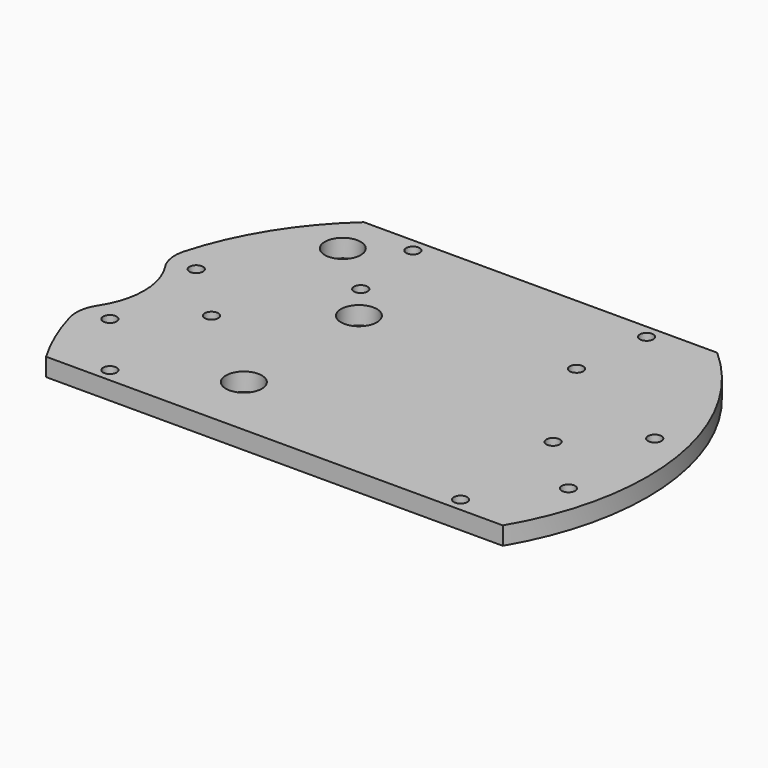
from build123d import *

# Parameters (mm, degrees)
CYLINDER1746_R     = 17
CYLINDER1746_DEPTH = 160
CYLINDER1742_R     = 1.5
CYLINDER1742_DEPTH = 100
CYLINDER1741_R     = 1.5
CYLINDER1741_DEPTH = 100
CYLINDER1740_R     = 1.5
CYLINDER1740_DEPTH = 32
CYLINDER1739_R     = 1.5
CYLINDER1739_DEPTH = 32
BOX544_W           = 200
BOX544_H           = 100
BOX544_DEPTH       = 100
BOX543_W           = 200
BOX543_H           = 100
BOX543_DEPTH       = 100
CYLINDER1732_R     = 4
CYLINDER1732_DEPTH = 100
CYLINDER1733_R     = 4
CYLINDER1733_DEPTH = 100
CYLINDER1734_R     = 4
CYLINDER1734_DEPTH = 100
CYLINDER1735_R     = 4
CYLINDER1735_DEPTH = 100
CYLINDER1736_R     = 4
CYLINDER1736_DEPTH = 100
CYLINDER1737_R     = 4
CYLINDER1737_DEPTH = 100
CYLINDER1738_R     = 4
CYLINDER1738_DEPTH = 100
CYLINDER1731_R     = 4
CYLINDER1731_DEPTH = 100
CYLINDER1724_R     = 1.5
CYLINDER1724_DEPTH = 100
CYLINDER1725_R     = 1.5
CYLINDER1725_DEPTH = 100
CYLINDER1726_R     = 1.5
CYLINDER1726_DEPTH = 100
CYLINDER1727_R     = 1.5
CYLINDER1727_DEPTH = 100
CYLINDER1728_R     = 1.5
CYLINDER1728_DEPTH = 100
CYLINDER1729_R     = 1.5
CYLINDER1729_DEPTH = 100
CYLINDER1730_R     = 1.5
CYLINDER1730_DEPTH = 100
CYLINDER1723_R     = 1.5
CYLINDER1723_DEPTH = 100
CYLINDER1722_R     = 59
CYLINDER1722_DEPTH = 4
FILLET001_R        = 8
FILLET002_R        = 8


with BuildPart() as obj1:
    # Cylinder1746 → Cylinder1746 (new body)
    with BuildSketch(Plane(origin=(-18, 0, -60), x_dir=(1, 0, 0), z_dir=(0, 0, 1))):
        Circle(CYLINDER1746_R)
    extrude(amount=CYLINDER1746_DEPTH)


with BuildPart() as obj2:
    # Cylinder1742 → Cylinder1742 (new body)
    with BuildSketch(Plane(origin=(14, 0, -60), x_dir=(1, 0, 0), z_dir=(0, 0, 1))):
        Circle(CYLINDER1742_R)
    extrude(amount=CYLINDER1742_DEPTH)


with BuildPart() as obj3:
    # Cylinder1741 → Cylinder1741 (new body)
    with BuildSketch(Plane(origin=(90, 0, -60), x_dir=(1, 0, 0), z_dir=(0, 0, 1))):
        Circle(CYLINDER1741_R)
    extrude(amount=CYLINDER1741_DEPTH)

    # Compound945: union obj2
    add(obj2.part)


with BuildPart() as obj4:
    # Cylinder1740 → Cylinder1740 (new body)
    with BuildSketch(Plane(origin=(78, 41, -42), x_dir=(1, 0, 0), z_dir=(0, 0, 1))):
        Circle(CYLINDER1740_R)
    extrude(amount=CYLINDER1740_DEPTH)


with BuildPart() as compound944:
    # Cylinder1739 → Cylinder1739 (new body)
    with BuildSketch(Plane(origin=(26, 41, -42), x_dir=(1, 0, 0), z_dir=(0, 0, 1))):
        Circle(CYLINDER1739_R)
    extrude(amount=CYLINDER1739_DEPTH)

    # Compound944: union obj4
    add(obj4.part)


with BuildPart() as krychle544:
    # Box544 → Box544 (new body)
    with BuildSketch(Plane(origin=(-60, 44, -90), x_dir=(1, 0, 0), z_dir=(0, 0, 1))):
        with Locations((100, 50)):
            Rectangle(BOX544_W, BOX544_H)
    extrude(amount=BOX544_DEPTH)


with BuildPart() as krychle543:
    # Box543 → Box543 (new body)
    with BuildSketch(Plane(origin=(-60, -130, -90), x_dir=(1, 0, 0), z_dir=(0, 0, 1))):
        with Locations((100, 50)):
            Rectangle(BOX543_W, BOX543_H)
    extrude(amount=BOX543_DEPTH)


with BuildPart() as obj5:
    # Cylinder1732 → Cylinder1732 (new body)
    with BuildSketch(Plane(origin=(-16, 34, -90), x_dir=(1, 0, 0), z_dir=(0, 0, 1))):
        Circle(CYLINDER1732_R)
    extrude(amount=CYLINDER1732_DEPTH)


with BuildPart() as obj6:
    # Cylinder1733 → Cylinder1733 (new body)
    with BuildSketch(Plane(origin=(-16, -34, -90), x_dir=(1, 0, 0), z_dir=(0, 0, 1))):
        Circle(CYLINDER1733_R)
    extrude(amount=CYLINDER1733_DEPTH)


with BuildPart() as obj7:
    # Cylinder1734 → Cylinder1734 (new body)
    with BuildSketch(Plane(origin=(34, -16, -90), x_dir=(1, 0, 0), z_dir=(0, 0, 1))):
        Circle(CYLINDER1734_R)
    extrude(amount=CYLINDER1734_DEPTH)


with BuildPart() as obj8:
    # Cylinder1735 → Cylinder1735 (new body)
    with BuildSketch(Plane(origin=(16, 34, -90), x_dir=(1, 0, 0), z_dir=(0, 0, 1))):
        Circle(CYLINDER1735_R)
    extrude(amount=CYLINDER1735_DEPTH)


with BuildPart() as obj9:
    # Cylinder1736 → Cylinder1736 (new body)
    with BuildSketch(Plane(origin=(16, -34, -90), x_dir=(1, 0, 0), z_dir=(0, 0, 1))):
        Circle(CYLINDER1736_R)
    extrude(amount=CYLINDER1736_DEPTH)


with BuildPart() as obj10:
    # Cylinder1737 → Cylinder1737 (new body)
    with BuildSketch(Plane(origin=(-34, 16, -90), x_dir=(1, 0, 0), z_dir=(0, 0, 1))):
        Circle(CYLINDER1737_R)
    extrude(amount=CYLINDER1737_DEPTH)


with BuildPart() as obj11:
    # Cylinder1738 → Cylinder1738 (new body)
    with BuildSketch(Plane(origin=(34, 16, -90), x_dir=(1, 0, 0), z_dir=(0, 0, 1))):
        Circle(CYLINDER1738_R)
    extrude(amount=CYLINDER1738_DEPTH)


with BuildPart() as obj12:
    # Cylinder1731 → Cylinder1731 (new body)
    with BuildSketch(Plane(origin=(-34, -16, -90), x_dir=(1, 0, 0), z_dir=(0, 0, 1))):
        Circle(CYLINDER1731_R)
    extrude(amount=CYLINDER1731_DEPTH)

    # Compound943: union obj5, obj6, obj7, obj8, obj9, obj10, obj11
    add(obj5.part)
    add(obj6.part)
    add(obj7.part)
    add(obj8.part)
    add(obj9.part)
    add(obj10.part)
    add(obj11.part)


with BuildPart() as obj13:
    # Cylinder1724 → Cylinder1724 (new body)
    with BuildSketch(Plane(origin=(103, 12, -60), x_dir=(1, 0, 0), z_dir=(0, 0, 1))):
        Circle(CYLINDER1724_R)
    extrude(amount=CYLINDER1724_DEPTH)


with BuildPart() as obj14:
    # Cylinder1725 → Cylinder1725 (new body)
    with BuildSketch(Plane(origin=(76, 24, -60), x_dir=(1, 0, 0), z_dir=(0, 0, 1))):
        Circle(CYLINDER1725_R)
    extrude(amount=CYLINDER1725_DEPTH)


with BuildPart() as obj15:
    # Cylinder1726 → Cylinder1726 (new body)
    with BuildSketch(Plane(origin=(91, -27, -60), x_dir=(1, 0, 0), z_dir=(0, 0, 1))):
        Circle(CYLINDER1726_R)
    extrude(amount=CYLINDER1726_DEPTH)


with BuildPart() as obj16:
    # Cylinder1727 → Cylinder1727 (new body)
    with BuildSketch(Plane(origin=(13, -27, -60), x_dir=(1, 0, 0), z_dir=(0, 0, 1))):
        Circle(CYLINDER1727_R)
    extrude(amount=CYLINDER1727_DEPTH)


with BuildPart() as obj17:
    # Cylinder1728 → Cylinder1728 (new body)
    with BuildSketch(Plane(origin=(28, 24, -60), x_dir=(1, 0, 0), z_dir=(0, 0, 1))):
        Circle(CYLINDER1728_R)
    extrude(amount=CYLINDER1728_DEPTH)


with BuildPart() as obj18:
    # Cylinder1729 → Cylinder1729 (new body)
    with BuildSketch(Plane(origin=(1, -12, -60), x_dir=(1, 0, 0), z_dir=(0, 0, 1))):
        Circle(CYLINDER1729_R)
    extrude(amount=CYLINDER1729_DEPTH)


with BuildPart() as obj19:
    # Cylinder1730 → Cylinder1730 (new body)
    with BuildSketch(Plane(origin=(1, 12, -60), x_dir=(1, 0, 0), z_dir=(0, 0, 1))):
        Circle(CYLINDER1730_R)
    extrude(amount=CYLINDER1730_DEPTH)


with BuildPart() as obj20:
    # Cylinder1723 → Cylinder1723 (new body)
    with BuildSketch(Plane(origin=(103, -12, -60), x_dir=(1, 0, 0), z_dir=(0, 0, 1))):
        Circle(CYLINDER1723_R)
    extrude(amount=CYLINDER1723_DEPTH)

    # Compound942: union obj13, obj14, obj15, obj16, obj17, obj18, obj19
    add(obj13.part)
    add(obj14.part)
    add(obj15.part)
    add(obj16.part)
    add(obj17.part)
    add(obj18.part)
    add(obj19.part)


with BuildPart() as fillet002:
    # Cylinder1722 → Cylinder1722 (new body)
    with BuildSketch(Plane(origin=(52, 0, -26), x_dir=(1, 0, 0), z_dir=(0, 0, 1))):
        Circle(CYLINDER1722_R)
    extrude(amount=CYLINDER1722_DEPTH)

    # Cut597: cut obj20
    add(obj20.part, mode=Mode.SUBTRACT)

    # Cut598: cut obj12
    add(obj12.part, mode=Mode.SUBTRACT)

    # Cut599: cut Krychle543
    add(krychle543.part, mode=Mode.SUBTRACT)

    # Cut600: cut Krychle544
    add(krychle544.part, mode=Mode.SUBTRACT)

    # Cut601: cut Compound944
    add(compound944.part, mode=Mode.SUBTRACT)

    # Cut602: cut obj3
    add(obj3.part, mode=Mode.SUBTRACT)

    # Cut586: cut obj1
    add(obj1.part, mode=Mode.SUBTRACT)

    # Fillet001
    fillet001_edges = [fillet002.edges().sort_by_distance(p)[0] for p in [
        (-5.8, -11.838919, -24),
    ]]
    fillet(fillet001_edges, radius=FILLET001_R)

    # Fillet002
    fillet002_edges = [fillet002.edges().sort_by_distance(p)[0] for p in [
        (-5.8, 11.838919, -24),
    ]]
    fillet(fillet002_edges, radius=FILLET002_R)


solid = fillet002.part
